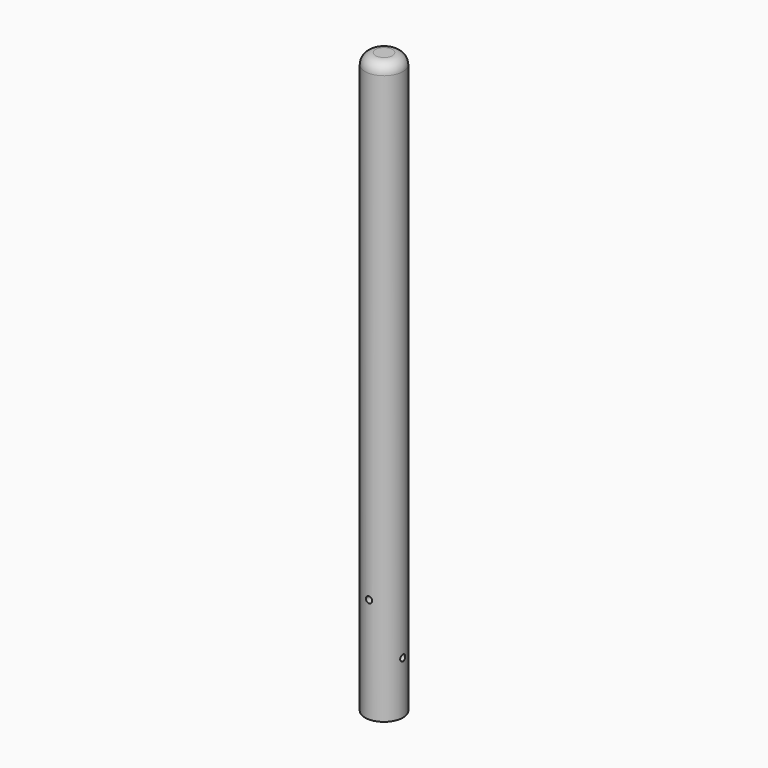
from build123d import *

# Parameters (mm, degrees)
F0_R     = 18
F1_DEPTH = 550
F2_R     = 10
F4_D     = 6
F4_DEPTH = 18.001
F5_D     = 6
F7_D     = 6
F7_DEPTH = 18.0010001
F8_D     = 6


with BuildPart() as f1:
    # F0 (on Top) → F1 (new body)
    with BuildSketch(Plane.XY):
        Circle(F0_R)
    extrude(amount=F1_DEPTH)

    # F2
    f2_edges = [f1.edges().sort_by_distance(p)[0] for p in [
        (-18, 0, 550),
    ]]
    fillet(f2_edges, radius=F2_R)

    # F4 (through all, one way)
    with BuildSketch(Plane(origin=(0, 0, 0), x_dir=(1, 0, 0), z_dir=(0, 1, 0))):
        with Locations((0, -100)):
            Circle(F4_D / 2)
    extrude(amount=-F4_DEPTH, mode=Mode.SUBTRACT)

    # F5 (through all)
    with Locations(Plane.XZ):
        with Locations((0, 100)):
            Hole(F5_D / 2)

    # F7 (through all, one way)
    with BuildSketch(Plane(origin=(0, 0, 0), x_dir=(0, 1, 0), z_dir=(-1, 0, 0))):
        with Locations((0, -50)):
            Circle(F7_D / 2)
    extrude(amount=-F7_DEPTH, mode=Mode.SUBTRACT)

    # F8 (through all)
    with Locations(Plane.YZ):
        with Locations((0, 50)):
            Hole(F8_D / 2)


solid = f1.part
